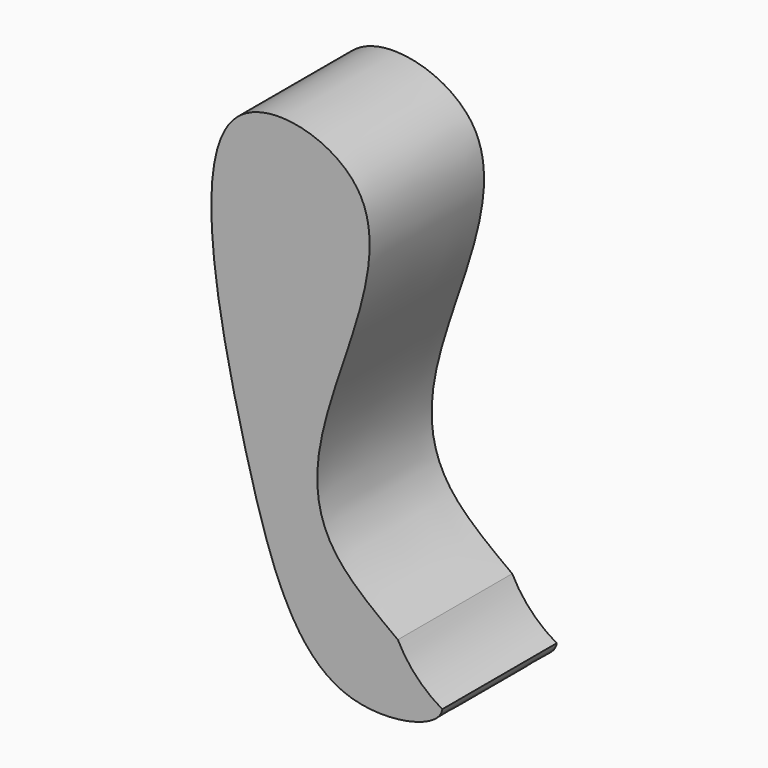
from build123d import *

# Parameters (mm, degrees)
F1_DEPTH = 25.4


with BuildPart() as f1:
    # F0 (on Front) → F1 (new body)
    with BuildSketch(Plane.XZ):
        with BuildLine():
            add(Edge.make_bspline(
                [(-10.0013612206, -17.422909609), (-10.3475551421, -20.7793652136), (-33.1938417099, -26.1845971211), (-45.6397526176, 9.4846236761), (-58.3292318808, 72.5059914451), (-15.2542027951, 61.9341385455), (-30.4553479108, 26.0044945449), (-35.0459257645, 3.5188400777), (-21.5958811336, -6.3821536114), (-17.900918441, -9.118230337)],
                knots=[0, 0, 0, 0, 0.1070343209, 0.2676009561, 0.4581220218, 0.5809893324, 0.731744416, 0.8674212444, 0.9280192622, 0.9280192622, 0.9280192622, 0.9280192622], degree=3))
            ThreePointArc((-10.0013612206, -17.422909609), (-14.5559687768, -13.8458939212), (-17.900918441, -9.118230337))
        make_face()
    extrude(amount=F1_DEPTH)


solid = f1.part
